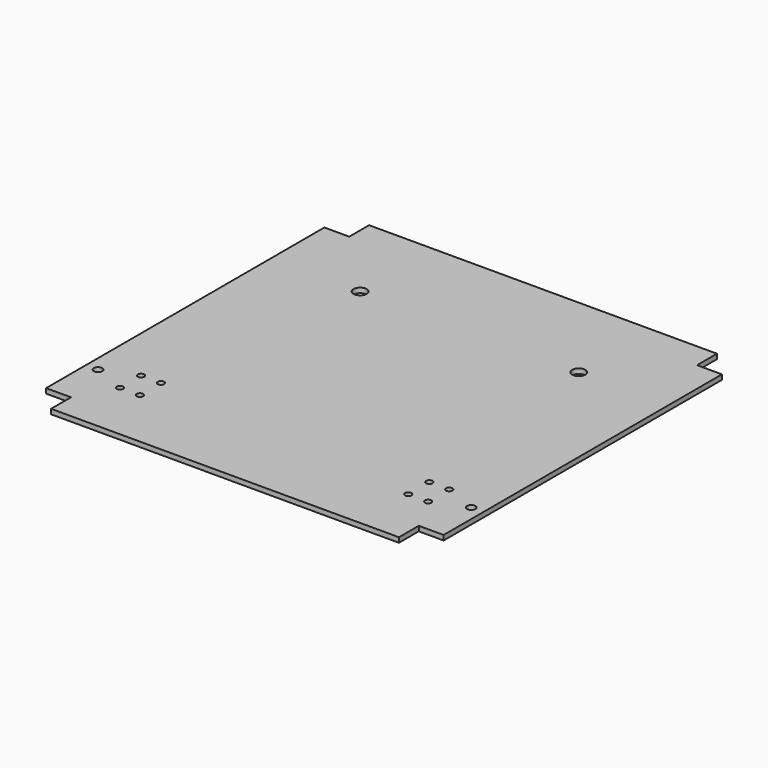
from build123d import *

# Parameters (mm, degrees)
F0_W     = 177.8
F0_H     = 12.7
F0_W_2   = 12.7
F0_H_2   = 177.8
F0_R     = 2.159
F0_R_2   = 1.651
F0_R_3   = 3.3655
F1_DEPTH = 2.5


with BuildPart() as f1:
    # F0 (on Top) → F1 (new body)
    with BuildSketch(Plane.XY):
        with Locations((5.239399, -87.245545)):
            Rectangle(F0_W, F0_H)
        with Locations((5.239399, 103.254455)):
            Rectangle(F0_W, F0_H)
        with Locations((100.489399, 8.004455)):
            Rectangle(F0_W_2, F0_H_2)
        with Locations((100.616399, -55.495545)):
            Circle(F0_R, mode=Mode.SUBTRACT)
        with Locations((-90.010601, 8.004455)):
            Rectangle(F0_W_2, F0_H_2)
        with Locations((-90.137601, -55.495545)):
            Circle(F0_R, mode=Mode.SUBTRACT)
        with Locations((5.239399, 8.004455)):
            Rectangle(F0_W, F0_H_2)
        with Locations((-73.500601, -62.226545)):
            Circle(F0_R_2, mode=Mode.SUBTRACT)
        with Locations((-73.500601, -48.764545)):
            Circle(F0_R_2, mode=Mode.SUBTRACT)
        with Locations((-63.340601, -62.226545)):
            Circle(F0_R_2, mode=Mode.SUBTRACT)
        with Locations((-63.340601, -48.764545)):
            Circle(F0_R_2, mode=Mode.SUBTRACT)
        with Locations((73.819399, -62.226545)):
            Circle(F0_R_2, mode=Mode.SUBTRACT)
        with Locations((73.819399, -48.764545)):
            Circle(F0_R_2, mode=Mode.SUBTRACT)
        with Locations((83.979399, -62.226545)):
            Circle(F0_R_2, mode=Mode.SUBTRACT)
        with Locations((83.979399, -48.764545)):
            Circle(F0_R_2, mode=Mode.SUBTRACT)
        with Locations((-50.640601, 62.614455)):
            Circle(F0_R_3, mode=Mode.SUBTRACT)
        with Locations((61.119399, 62.614455)):
            Circle(F0_R_3, mode=Mode.SUBTRACT)
    extrude(amount=F1_DEPTH)


solid = f1.part
